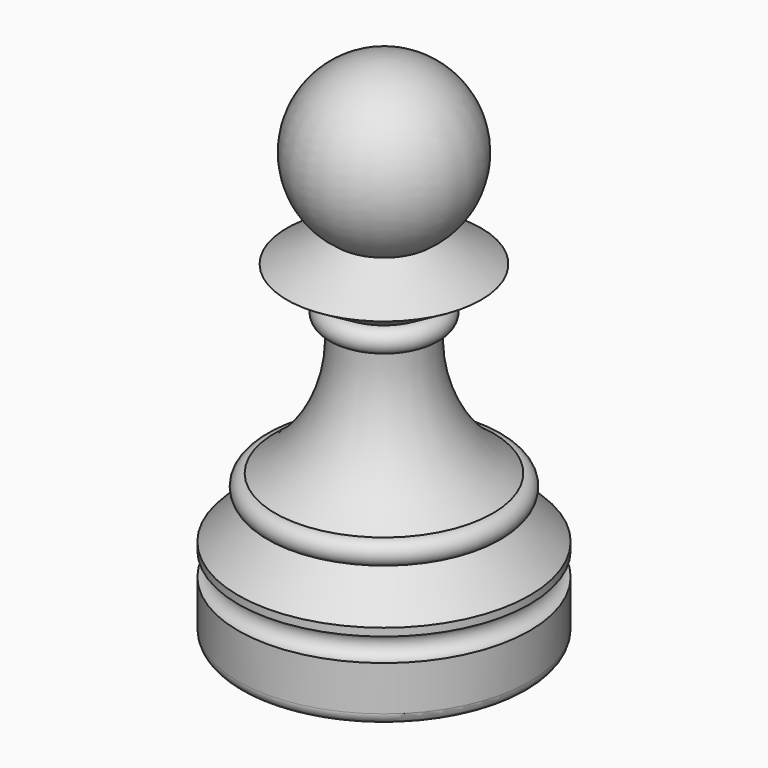
from build123d import *

# Parameters (mm, degrees)
F2_R = 1.143


with BuildPart() as f1:
    # F0 (on Front) → F1 (revolve)
    with BuildSketch(Plane.XZ):
        with BuildLine():
            Line((10.668, 0), (0, 0))
            Line((0, 0), (0, -12.192))
            Line((0, -12.192), (14.2875, -12.192))
            Line((14.2875, -12.192), (14.2875, -6.6675))
            ThreePointArc((14.2875, -6.6675), (13.1445, -5.5245), (14.2875, -4.3815))
            Line((14.2875, -4.3815), (14.2875, -3.6195))
            Line((14.2875, -3.6195), (10.668, 0))
        make_face()
    revolve(axis=Axis((0, 0, -6.096), (0, 0, 1)))

    # F2
    f2_edges = [f1.edges().sort_by_distance(p)[0] for p in [
        (-14.2875, 0, -12.192),
    ]]
    fillet(f2_edges, radius=F2_R)

    # F3 (on Front) → F4 (revolve)
    with BuildSketch(Plane.XZ):
        with BuildLine():
            Line((0, 0), (10.668, 0))
            ThreePointArc((10.668, 0), (11.811, 1.143), (10.668, 2.286))
            ThreePointArc((10.668, 2.286), (5.865566, 7.871806), (4.572, 15.123792))
            ThreePointArc((4.572, 15.123792), (5.715, 16.266792), (4.572, 17.409792))
            Line((4.572, 17.409792), (9.525, 20.330792))
            Line((9.525, 20.330792), (4.572, 23.251792))
            ThreePointArc((4.572, 23.251792), (7.768083, 32.363917), (0, 38.1))
            Line((0, 38.1), (0, 0))
        make_face()
    revolve(axis=Axis((0, 0, 19.05), (0, 0, 1)))


solid = f1.part
